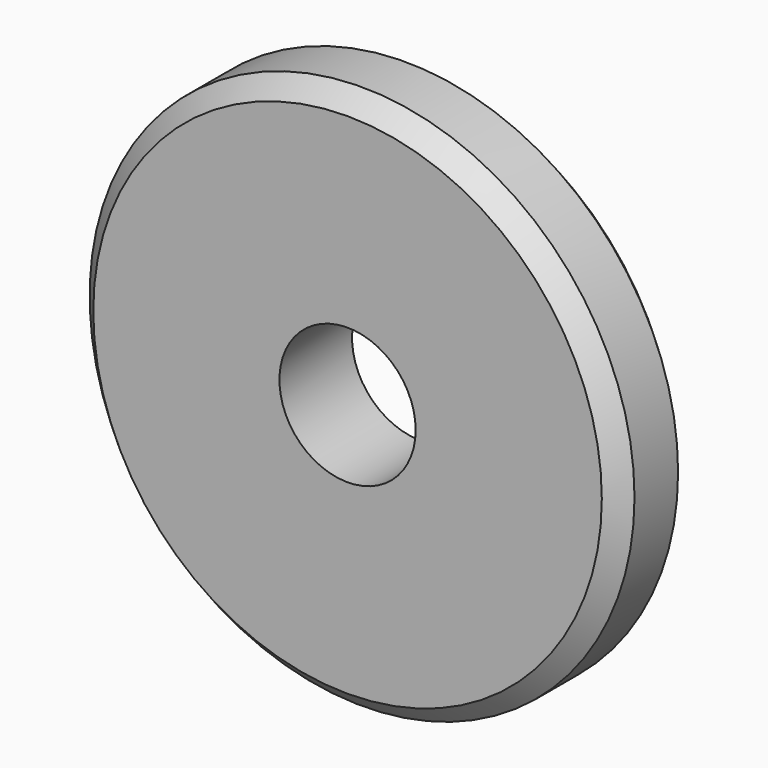
from build123d import *

# Parameters (mm, degrees)
F0_R     = 19.05
F0_R_2   = 4.7625
F1_DEPTH = 6.35
F2_SIZE  = 1.27


with BuildPart() as f1:
    # F0 (on Front) → F1 (new body)
    with BuildSketch(Plane.XZ):
        Circle(F0_R)
        Circle(F0_R_2, mode=Mode.SUBTRACT)
    extrude(amount=-F1_DEPTH)

    # F2
    f2_edges = [f1.edges().sort_by_distance(p)[0] for p in [
        (-19.05, 0, 0),
        (-19.05, 6.35, 0),
    ]]
    chamfer(f2_edges, length=F2_SIZE)


solid = f1.part
